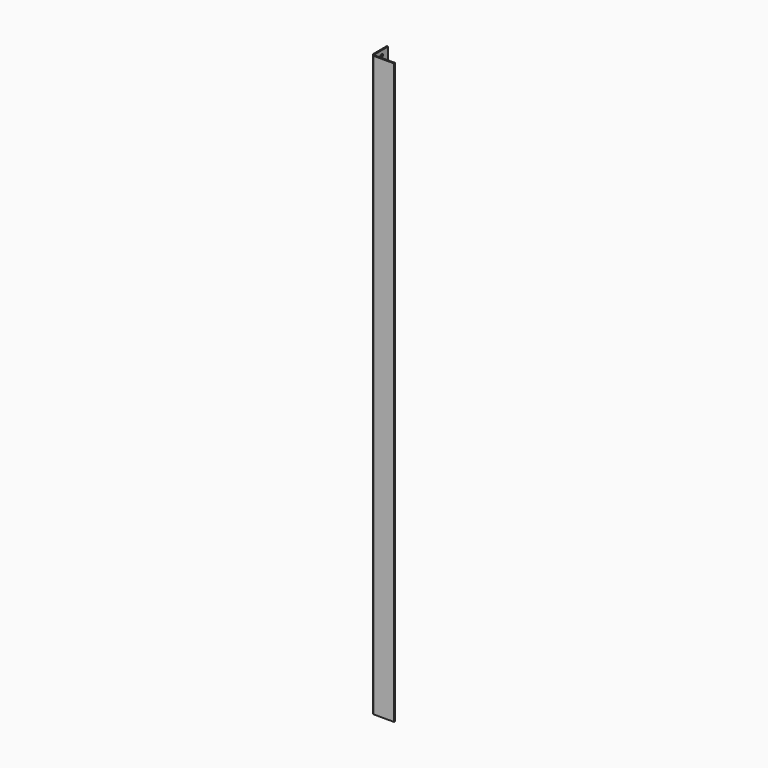
from build123d import *

# Parameters (mm, degrees)
PAD_DEPTH    = 895
SKETCH001_R  = 2.5
POCKET_DEPTH = 5


with BuildPart() as part:
    # Sketch → Pad (new body)
    with BuildSketch(Plane.XY):
        with BuildLine():
            Line((-15.151174, 23.8983), (-13.151174, 23.8983))
            Line((-13.151174, 23.8983), (-13.151174, -1.1017))
            ThreePointArc((-13.151174, -1.1017), (-12.272494, -3.22302), (-10.151174, -4.1017))
            Line((19.848826, -4.1017), (-10.151174, -4.1017))
            Line((19.848826, -6.1017), (19.848826, -4.1017))
            Line((-10.151174, -6.1017), (19.848826, -6.1017))
            ThreePointArc((-15.151174, -1.1017), (-13.686708, -4.637234), (-10.151174, -6.1017))
            Line((-15.151174, -1.1017), (-15.151174, 23.8983))
        make_face()
    extrude(amount=PAD_DEPTH)

    # Sketch001 → Pocket (cut)
    with BuildSketch(Plane.YZ.offset(-13.151174)):
        with Locations((11.3983, 887.5)):
            Circle(SKETCH001_R)
        with Locations((11.3983, 456.5)):
            Circle(SKETCH001_R)
        with Locations((11.3983, 7.5)):
            Circle(SKETCH001_R)
    extrude(amount=-POCKET_DEPTH, mode=Mode.SUBTRACT)


solid = part.part
